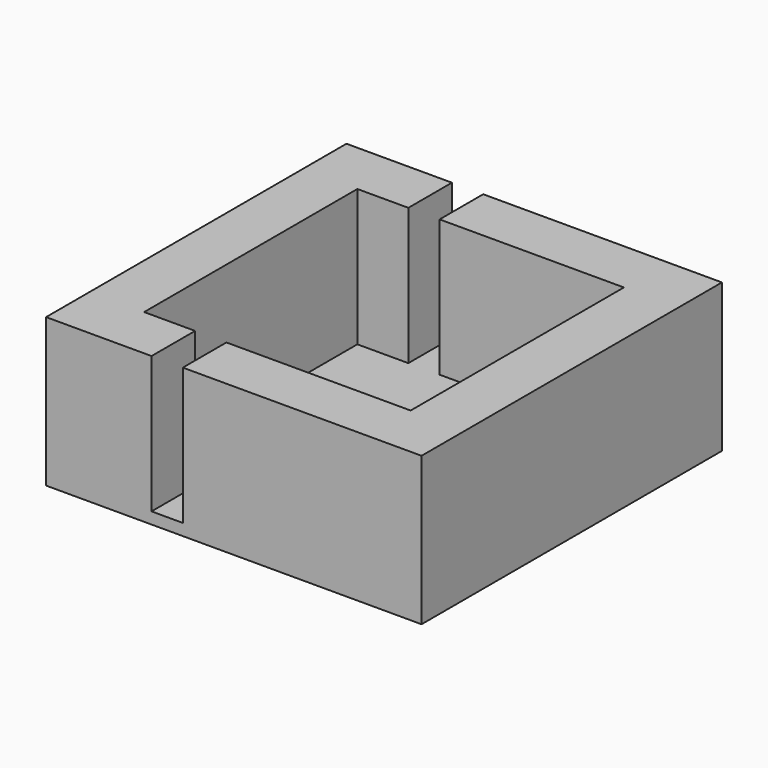
from build123d import *

# Parameters (mm, degrees)
F0_W     = 23
F0_H     = 23
F1_DEPTH = 1
F2_DEPTH = 11.8
F3_W     = 2.7
F3_H     = 11.8
F4_DEPTH = 32.401


with BuildPart() as f1:
    # F0 (on Top) → F1 (new body)
    with BuildSketch(Plane.XY):
        with Locations((3.442476, 0.669988)):
            Rectangle(F0_W, F0_H)
        Polygon((14.942476, -10.830012), (-8.057524, -10.830012), (-12.757524, -10.830012), (-12.757524, -15.530012), (14.942476, -15.530012), align=None)
        Polygon((-8.057524, -10.830012), (-8.057524, 12.169988), (-8.057524, 16.869988), (-12.757524, 16.869988), (-12.757524, -10.830012), align=None)
        Polygon((-8.057524, 16.869988), (-8.057524, 12.169988), (14.942476, 12.169988), (19.642476, 12.169988), (19.642476, 16.869988), align=None)
        Polygon((19.642476, 12.169988), (14.942476, 12.169988), (14.942476, -10.830012), (14.942476, -15.530012), (19.642476, -15.530012), align=None)
    extrude(amount=-F1_DEPTH)

    # F0 (on Top) → F2 (join)
    with BuildSketch(Plane.XY):
        Polygon((-8.057524, 16.869988), (-8.057524, 12.169988), (14.942476, 12.169988), (19.642476, 12.169988), (19.642476, 16.869988), align=None)
        Polygon((-8.057524, -10.830012), (-8.057524, 12.169988), (-8.057524, 16.869988), (-12.757524, 16.869988), (-12.757524, -10.830012), align=None)
        Polygon((19.642476, 12.169988), (14.942476, 12.169988), (14.942476, -10.830012), (14.942476, -15.530012), (19.642476, -15.530012), align=None)
        Polygon((14.942476, -10.830012), (-8.057524, -10.830012), (-12.757524, -10.830012), (-12.757524, -15.530012), (14.942476, -15.530012), align=None)
    extrude(amount=F2_DEPTH)

    # F3 (on face) → F4 (cut, through all)
    with BuildSketch(Plane.XZ.offset(15.530012)):
        with Locations((-2.307524, 5.9)):
            Rectangle(F3_W, F3_H)
    extrude(amount=-F4_DEPTH, mode=Mode.SUBTRACT)


solid = f1.part
